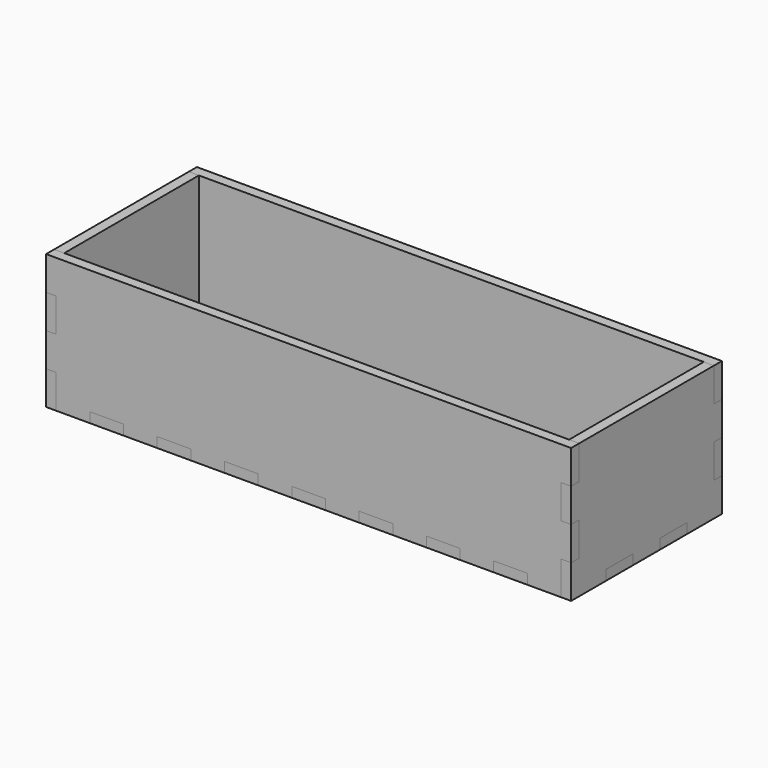
from build123d import *

# Parameters (mm, degrees)
F1_DEPTH = 3
F3_DEPTH = 3
F5_DEPTH = 3


with BuildPart() as f1:
    # F0 (on Top) → F1 (new body)
    with BuildSketch(Plane.XY):
        Polygon((-75, -15), (-75, -25), (-65, -25), (-65, -28), (-55, -28), (-55, -25), (-45, -25), (-45, -28), (-35, -28), (-35, -25), (-25, -25), (-25, -28), (-15, -28), (-15, -25), (-5, -25), (-5, -28), (5, -28), (5, -25), (15, -25), (15, -28), (25, -28), (25, -25), (35, -25), (35, -28), (45, -28), (45, -25), (55, -25), (55, -28), (65, -28), (65, -25), (75, -25), (75, -15), (78, -15), (78, -5), (75, -5), (75, 5), (78, 5), (78, 15), (75, 15), (75, 25), (65, 25), (65, 28), (55, 28), (55, 25), (45, 25), (45, 28), (35, 28), (35, 25), (25, 25), (25, 28), (15, 28), (15, 25), (5, 25), (5, 28), (-5, 28), (-5, 25), (-15, 25), (-15, 28), (-25, 28), (-25, 25), (-35, 25), (-35, 28), (-45, 28), (-45, 25), (-55, 25), (-55, 28), (-65, 28), (-65, 25), (-75, 25), (-75, 15), (-78, 15), (-78, 5), (-75, 5), (-75, -5), (-78, -5), (-78, -15), align=None)
    extrude(amount=F1_DEPTH)


with BuildPart() as f3:
    # F2 (on face) → F3 (new body)
    with BuildSketch(Plane(origin=(-75, 0, 0), x_dir=(0, -1, 0), z_dir=(-1, 0, 0))):
        Polygon((-28, 0), (-15, 0), (-15, 3), (-5, 3), (-5, 0), (5, 0), (5, 3), (15, 3), (15, 0), (28, 0), (28, 10), (25, 10), (25, 20), (28, 20), (28, 30), (25, 30), (25, 40), (-25, 40), (-25, 30), (-28, 30), (-28, 20), (-25, 20), (-25, 10), (-28, 10), align=None)
    extrude(amount=F3_DEPTH)


with BuildPart() as f5:
    # F4 (on face) → F5 (new body)
    with BuildSketch(Plane.XZ.offset(25)):
        Polygon((-75, 10), (-75, 0), (-65, 0), (-65, 3), (-55, 3), (-55, 0), (-45, 0), (-45, 3), (-35, 3), (-35, 0), (-25, 0), (-25, 3), (-15, 3), (-15, 0), (-5, 0), (-5, 3), (5, 3), (5, 0), (15, 0), (15, 3), (25, 3), (25, 0), (35, 0), (35, 3), (45, 3), (45, 0), (55, 0), (55, 3), (65, 3), (65, 0), (75, 0), (75, 3), (75, 10), (78, 10), (78, 20), (75, 20), (75, 30), (78, 30), (78, 40), (-78, 40), (-78, 30), (-75, 30), (-75, 20), (-78, 20), (-78, 10), align=None)
    extrude(amount=F5_DEPTH)


with BuildPart() as f6_1:
    # F6: instance of F3
    add(f3.part.mirror(Plane.YZ))


with BuildPart() as f7_1:
    # F7: instance of F5
    add(f5.part.mirror(Plane.XZ))


solid = Compound([f1.part, f3.part, f5.part, f6_1.part, f7_1.part])
